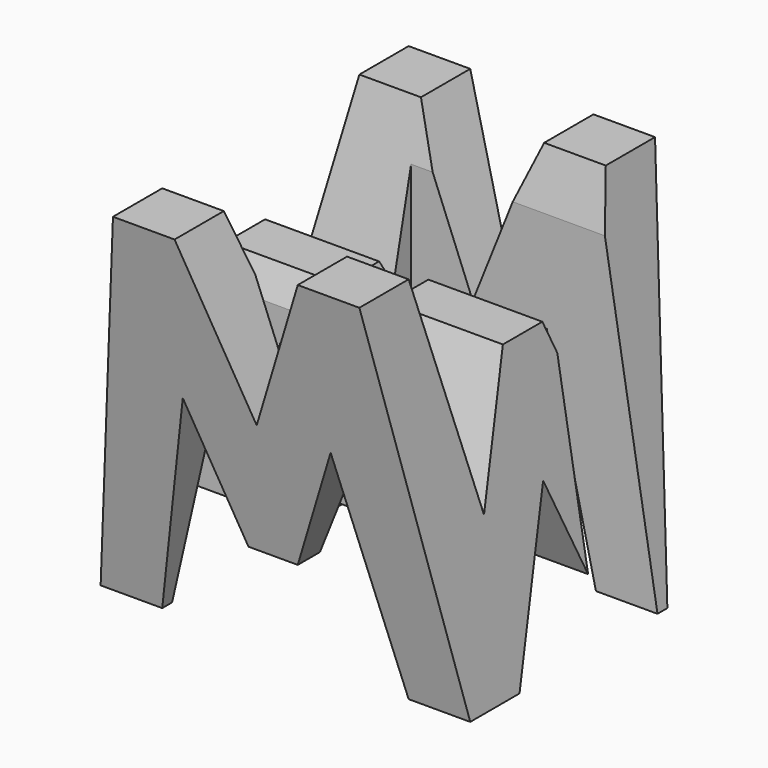
from build123d import *

# Parameters (mm, degrees)
F0_W      = 38.1
F0_H      = 38.1
F1_DEPTH  = 38.1
F6_DEPTH  = 38.1
F8_DEPTH  = 38.1
F9_W      = 25.4
F9_H      = 7.62
F10_DEPTH = 38.1


with BuildPart() as f1:
    # F0 (on Front) → F1 (new body)
    with BuildSketch(Plane.XZ):
        with Locations((19.05, 19.05)):
            Rectangle(F0_W, F0_H)
    extrude(amount=F1_DEPTH)

    # F5 (on offset) → F6 (cut)
    with BuildSketch(Plane.YZ.offset(38.1)):
        Polygon((-6.35, 0), (0, 0), (0, 38.1), align=None)
        Polygon((-25.4, 0), (-12.7, 0), (-19.05, 15.875), align=None)
        Polygon((-38.1, 0), (-31.75, 0), (-38.1, 38.1), align=None)
        Polygon((-11.43, 15.875), (-6.35, 38.1), (-31.75, 38.1), (-26.67, 15.875), (-21.59, 28.575), (-16.51, 28.575), align=None)
    extrude(amount=-F6_DEPTH, mode=Mode.SUBTRACT)

    # F7 (on offset) → F8 (cut)
    with BuildSketch(Plane.XZ.offset(38.1)):
        Polygon((0, 38.1), (0, 0), (6.35, 38.1), align=None)
        Polygon((11.43, 22.225), (6.35, 0), (31.75, 0), (26.67, 22.225), (21.59, 9.525), (16.51, 9.525), align=None)
        Polygon((25.4, 38.1), (12.7, 38.1), (19.05, 22.225), align=None)
        Polygon((31.75, 38.1), (38.1, 0), (38.1, 38.1), align=None)
    extrude(amount=-F8_DEPTH, mode=Mode.SUBTRACT)

    # F9 (on offset) → F10 (cut)
    with BuildSketch(Plane.XY.offset(38.1)):
        with Locations((25.4, -11.43)):
            Rectangle(F9_W, F9_H)
        with Locations((12.7, -26.67)):
            Rectangle(F9_W, F9_H)
    extrude(amount=-F10_DEPTH, mode=Mode.SUBTRACT)


solid = f1.part
